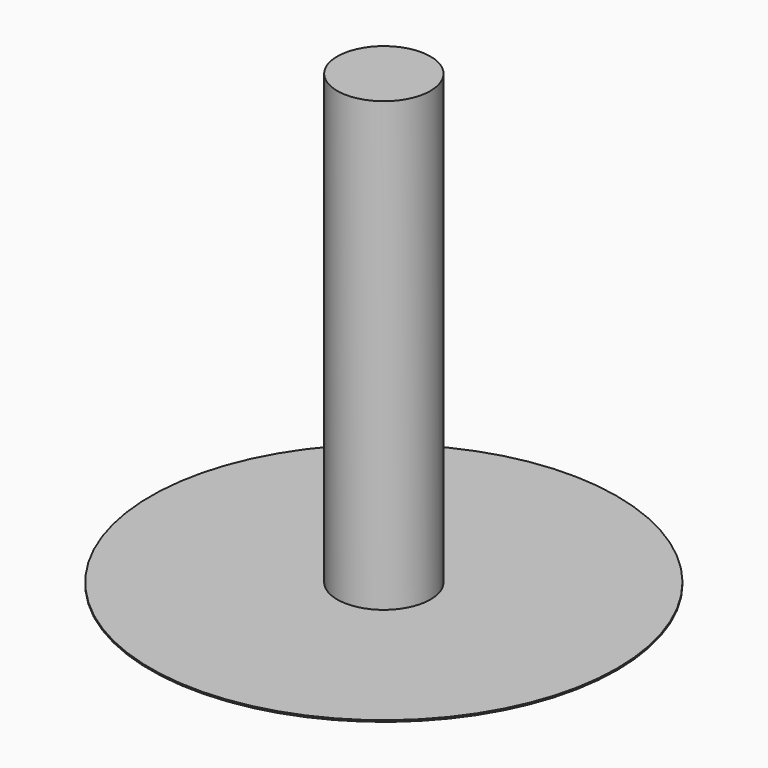
from build123d import *

# Parameters (mm, degrees)
CYLINDER_R        = 15
CYLINDER_DEPTH    = 10
CYLINDER001_R     = 3
CYLINDER001_DEPTH = 37.95
CYLINDER002_R     = 15
CYLINDER002_DEPTH = 0.1


with BuildPart() as cylinder:
    # Cylinder → Cylinder (new body)
    with BuildSketch(Plane.XY):
        Circle(CYLINDER_R)
    extrude(amount=CYLINDER_DEPTH)


with BuildPart() as cylinder001:
    # Cylinder001 → Cylinder001 (new body)
    with BuildSketch(Plane.XY.offset(-28.8499)):
        Circle(CYLINDER001_R)
    extrude(amount=CYLINDER001_DEPTH)


with BuildPart() as cut_spar:
    # Cylinder002 → Cylinder002 (new body)
    with BuildSketch(Plane.XY.offset(-28.9)):
        Circle(CYLINDER002_R)
    extrude(amount=CYLINDER002_DEPTH)

    # Fusion: union Cylinder001
    add(cylinder001.part)

    # Cut001: cut Cylinder
    add(cylinder.part, mode=Mode.SUBTRACT)


solid = cut_spar.part
